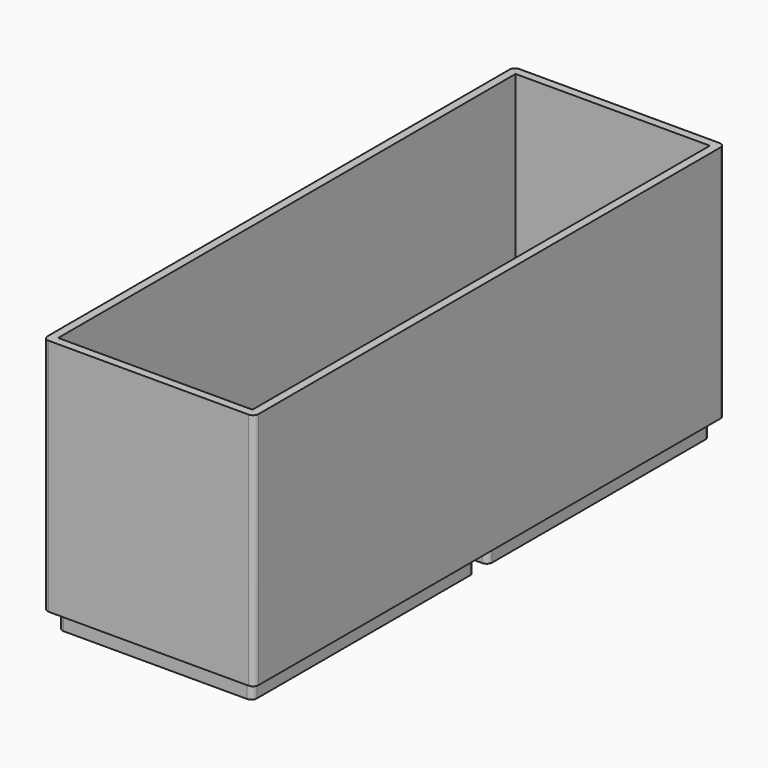
from build123d import *

# Parameters (mm, degrees)
F0_W     = 35
F0_H     = 50
F1_DEPTH = 3.2
F0_H_2   = 1.5
F2_DEPTH = 1.7
F3_DEPTH = 43
F4_R     = 1


with BuildPart() as f1:
    # F0 (on Top) → F1 (new body)
    with BuildSketch(Plane.XY):
        with Locations((19, 79.5)):
            Rectangle(F0_W, F0_H)
        with Locations((19, 26.5)):
            Rectangle(F0_W, F0_H)
    extrude(amount=-F1_DEPTH)

    # F0 (on Top) → F2 (join)
    with BuildSketch(Plane.XY):
        with Locations((19, 53.75)):
            Rectangle(F0_W, F0_H_2)
        Polygon((0, 53), (0, 0), (38, 0), (38, 53), (36.5, 53), (36.5, 51.5), (36.5, 1.5), (1.5, 1.5), (1.5, 51.5), (1.5, 53), align=None)
        with Locations((19, 26.5)):
            Rectangle(F0_W, F0_H)
        with Locations((19, 79.5)):
            Rectangle(F0_W, F0_H)
        with Locations((19, 53.75)):
            Rectangle(F0_W, F0_H_2)
        with Locations((19, 52.25)):
            Rectangle(F0_W, F0_H_2)
    extrude(amount=F2_DEPTH)

    # F0 (on Top) → F3 (join)
    with BuildSketch(Plane.XY):
        Polygon((0, 106), (0, 53), (1.5, 53), (1.5, 54.5), (1.5, 104.5), (36.5, 104.5), (36.5, 54.5), (36.5, 53), (38, 53), (38, 106), align=None)
        Polygon((0, 53), (0, 0), (38, 0), (38, 53), (36.5, 53), (36.5, 51.5), (36.5, 1.5), (1.5, 1.5), (1.5, 51.5), (1.5, 53), align=None)
    extrude(amount=F3_DEPTH)

    # F4
    f4_edges = [f1.edges().sort_by_distance(p)[0] for p in [
        (0, 0, 21.5),
        (38, 0, 21.5),
        (38, 106, 21.5),
        (0, 106, 21.5),
        (1.5, 104.5, -1.6),
        (36.5, 104.5, -1.6),
        (36.5, 54.5, -1.6),
        (1.5, 54.5, -1.6),
        (1.5, 51.5, -1.6),
        (36.5, 51.5, -1.6),
        (36.5, 1.5, -1.6),
        (1.5, 1.5, -1.6),
    ]]
    fillet(f4_edges, radius=F4_R)


solid = f1.part
